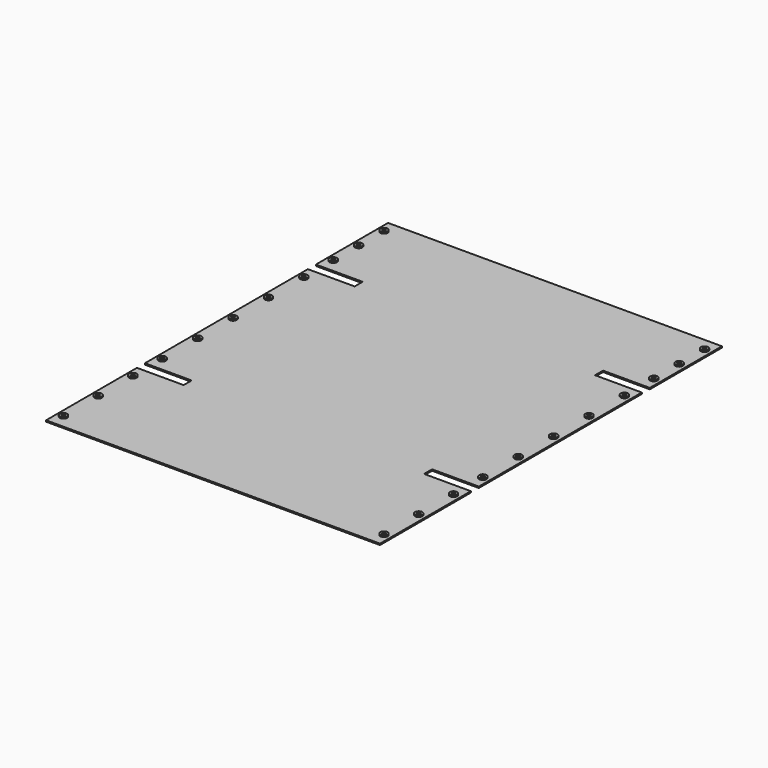
from build123d import *

# Parameters (mm, degrees)
F0_R     = 3.175
F1_DEPTH = 2.54
F2_R     = 6.985
F2_R_2   = 3.175
F3_DEPTH = 2.54


with BuildPart() as f1:
    # F0 (on Top) → F1 (new body)
    with BuildSketch(Plane.XY):
        Polygon((-317.5, -406.4), (317.5, -406.4), (317.5, -190.5), (228.6, -190.5), (228.6, -171.45), (317.5, -171.45), (317.5, 215.9), (228.6, 215.9), (228.6, 234.95), (317.5, 234.95), (317.5, 406.4), (-317.5, 406.4), (-317.5, 234.95), (-228.6, 234.95), (-228.6, 215.9), (-317.5, 215.9), (-317.5, -171.45), (-228.6, -171.45), (-228.6, -190.5), (-317.5, -190.5), align=None)
        with Locations((-304.8, -381)):
            Circle(F0_R, mode=Mode.SUBTRACT)
        with Locations((-304.8, -298.45)):
            Circle(F0_R, mode=Mode.SUBTRACT)
        with Locations((-304.8, -215.9)):
            Circle(F0_R, mode=Mode.SUBTRACT)
        with Locations((-304.8, -146.05)):
            Circle(F0_R, mode=Mode.SUBTRACT)
        with Locations((-304.8, -61.9125)):
            Circle(F0_R, mode=Mode.SUBTRACT)
        with Locations((304.8, -381)):
            Circle(F0_R, mode=Mode.SUBTRACT)
        with Locations((304.8, -298.45)):
            Circle(F0_R, mode=Mode.SUBTRACT)
        with Locations((304.8, -215.9)):
            Circle(F0_R, mode=Mode.SUBTRACT)
        with Locations((304.8, -146.05)):
            Circle(F0_R, mode=Mode.SUBTRACT)
        with Locations((304.8, -61.9125)):
            Circle(F0_R, mode=Mode.SUBTRACT)
        with Locations((-304.8, 22.225)):
            Circle(F0_R, mode=Mode.SUBTRACT)
        with Locations((-304.8, 106.3625)):
            Circle(F0_R, mode=Mode.SUBTRACT)
        with Locations((-304.8, 190.5)):
            Circle(F0_R, mode=Mode.SUBTRACT)
        with Locations((-304.8, 260.35)):
            Circle(F0_R, mode=Mode.SUBTRACT)
        with Locations((-304.8, 320.675)):
            Circle(F0_R, mode=Mode.SUBTRACT)
        with Locations((-304.8, 381)):
            Circle(F0_R, mode=Mode.SUBTRACT)
        with Locations((304.8, 22.225)):
            Circle(F0_R, mode=Mode.SUBTRACT)
        with Locations((304.8, 106.3625)):
            Circle(F0_R, mode=Mode.SUBTRACT)
        with Locations((304.8, 190.5)):
            Circle(F0_R, mode=Mode.SUBTRACT)
        with Locations((304.8, 260.35)):
            Circle(F0_R, mode=Mode.SUBTRACT)
        with Locations((304.8, 320.675)):
            Circle(F0_R, mode=Mode.SUBTRACT)
        with Locations((304.8, 381)):
            Circle(F0_R, mode=Mode.SUBTRACT)
    extrude(amount=F1_DEPTH)

    # F2 (on face) → F3 (join)
    with BuildSketch(Plane.XY.offset(2.54)):
        with Locations((304.8, -381)):
            Circle(F2_R)
        with Locations((304.8, -381)):
            Circle(F2_R_2, mode=Mode.SUBTRACT)
        with Locations((304.8, -298.45)):
            Circle(F2_R)
        with Locations((304.8, -298.45)):
            Circle(F2_R_2, mode=Mode.SUBTRACT)
        with Locations((304.8, -215.9)):
            Circle(F2_R)
        with Locations((304.8, -215.9)):
            Circle(F2_R_2, mode=Mode.SUBTRACT)
        with Locations((304.8, -146.05)):
            Circle(F2_R)
        with Locations((304.8, -146.05)):
            Circle(F2_R_2, mode=Mode.SUBTRACT)
        with Locations((304.8, -61.9125)):
            Circle(F2_R)
        with Locations((304.8, -61.9125)):
            Circle(F2_R_2, mode=Mode.SUBTRACT)
        with Locations((304.8, 22.225)):
            Circle(F2_R)
        with Locations((304.8, 22.225)):
            Circle(F2_R_2, mode=Mode.SUBTRACT)
        with Locations((304.8, 106.3625)):
            Circle(F2_R)
        with Locations((304.8, 106.3625)):
            Circle(F2_R_2, mode=Mode.SUBTRACT)
        with Locations((304.8, 190.5)):
            Circle(F2_R)
        with Locations((304.8, 190.5)):
            Circle(F2_R_2, mode=Mode.SUBTRACT)
        with Locations((304.8, 260.35)):
            Circle(F2_R)
        with Locations((304.8, 260.35)):
            Circle(F2_R_2, mode=Mode.SUBTRACT)
        with Locations((304.8, 320.675)):
            Circle(F2_R)
        with Locations((304.8, 320.675)):
            Circle(F2_R_2, mode=Mode.SUBTRACT)
        with Locations((304.8, 381)):
            Circle(F2_R)
        with Locations((304.8, 381)):
            Circle(F2_R_2, mode=Mode.SUBTRACT)
        with Locations((-304.8, 381)):
            Circle(F2_R)
        with Locations((-304.8, 381)):
            Circle(F2_R_2, mode=Mode.SUBTRACT)
        with Locations((-304.8, 320.675)):
            Circle(F2_R)
        with Locations((-304.8, 320.675)):
            Circle(F2_R_2, mode=Mode.SUBTRACT)
        with Locations((-304.8, 260.35)):
            Circle(F2_R)
        with Locations((-304.8, 260.35)):
            Circle(F2_R_2, mode=Mode.SUBTRACT)
        with Locations((-304.8, 190.5)):
            Circle(F2_R)
        with Locations((-304.8, 190.5)):
            Circle(F2_R_2, mode=Mode.SUBTRACT)
        with Locations((-304.8, 106.3625)):
            Circle(F2_R)
        with Locations((-304.8, 106.3625)):
            Circle(F2_R_2, mode=Mode.SUBTRACT)
        with Locations((-304.8, 22.225)):
            Circle(F2_R)
        with Locations((-304.8, 22.225)):
            Circle(F2_R_2, mode=Mode.SUBTRACT)
        with Locations((-304.8, -61.9125)):
            Circle(F2_R)
        with Locations((-304.8, -61.9125)):
            Circle(F2_R_2, mode=Mode.SUBTRACT)
        with Locations((-304.8, -146.05)):
            Circle(F2_R)
        with Locations((-304.8, -146.05)):
            Circle(F2_R_2, mode=Mode.SUBTRACT)
        with Locations((-304.8, -215.9)):
            Circle(F2_R)
        with Locations((-304.8, -215.9)):
            Circle(F2_R_2, mode=Mode.SUBTRACT)
        with Locations((-304.8, -298.45)):
            Circle(F2_R)
        with Locations((-304.8, -298.45)):
            Circle(F2_R_2, mode=Mode.SUBTRACT)
        with Locations((-304.8, -381)):
            Circle(F2_R)
        with Locations((-304.8, -381)):
            Circle(F2_R_2, mode=Mode.SUBTRACT)
    extrude(amount=F3_DEPTH)


solid = f1.part
